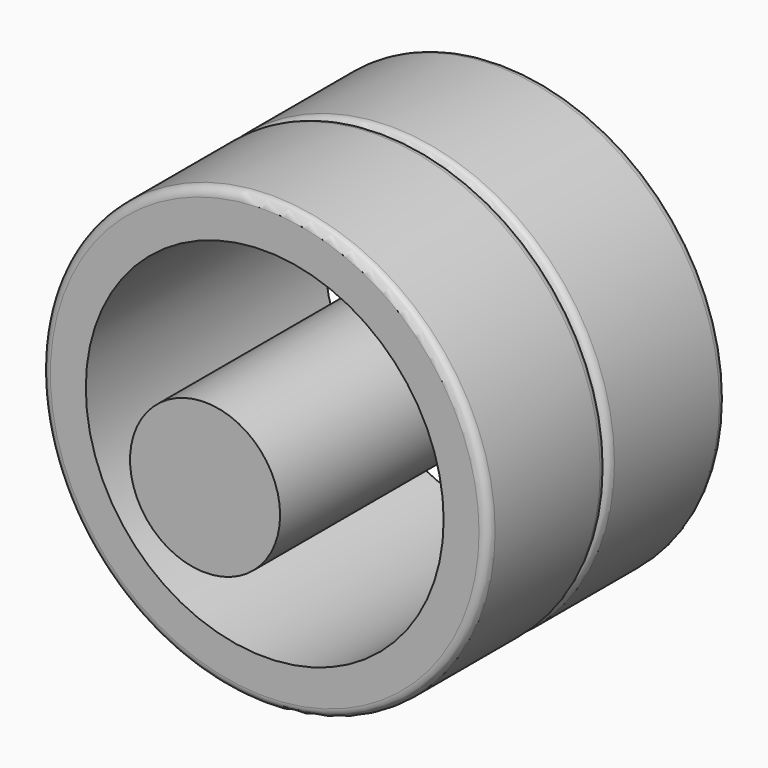
from build123d import *

# Parameters (mm, degrees)
F0_R     = 74.8783311707
F1_DEPTH = 50
F3_D     = 120
F4_R     = 3
F6_R     = 25.1559486601
F7_DEPTH = 75


with BuildPart() as f1:
    # F0 (on Front) → F1 (new body)
    with BuildSketch(Plane.XZ):
        Circle(F0_R)
    extrude(amount=F1_DEPTH)

    # F3 (through all)
    with Locations(Plane(origin=(0, 0, 0), x_dir=(1, 0, 0), z_dir=(0, 1, 0))):
        with Locations((0, 0.2706199884)):
            Hole(F3_D / 2)

    # F4
    f4_edges = [f1.edges().sort_by_distance(p)[0] for p in [
        (-74.878331, -50, 0),
        (-74.878331, 0, 0),
    ]]
    fillet(f4_edges, radius=F4_R)

    # F5: F1 across plane


with BuildPart() as f1_1:
    add(f1.part)
    add(f1.part.mirror(Plane.XZ))


with BuildPart() as f7:
    # F6 (on Front) → F7 (new body, symmetric)
    with BuildSketch(Plane.XZ):
        Circle(F6_R)
    extrude(amount=F7_DEPTH, both=True)


solid = Compound([f1_1.part, f7.part])
